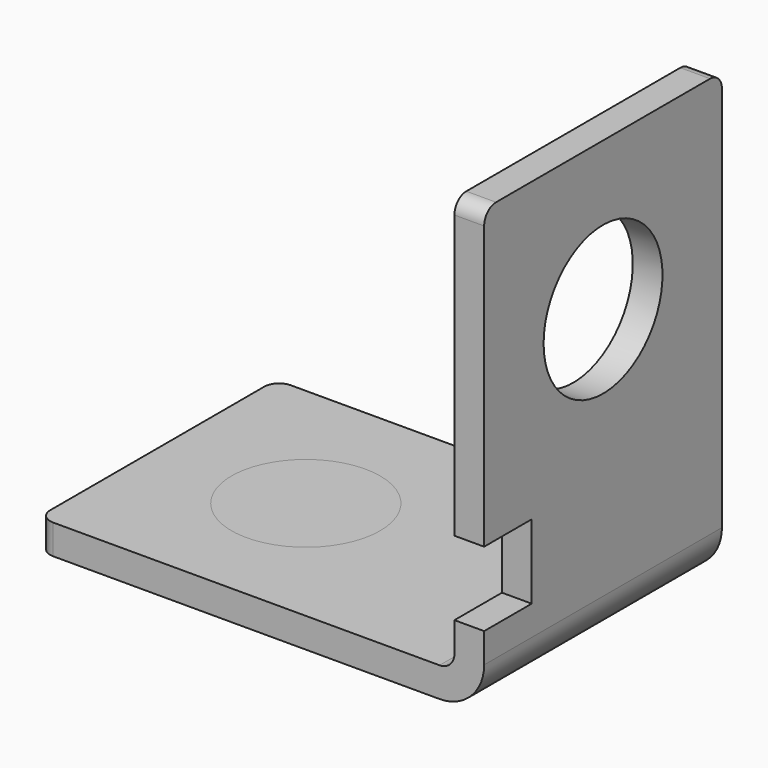
from build123d import *

# Parameters (mm, degrees)
F1_DEPTH  = 20
F2_R      = 5
F3_DEPTH  = 2
F4_R      = 5
F5_DEPTH  = 2
F6_W      = 4
F6_H      = 5
F7_DEPTH  = 2
F8_R      = 1
F9_R      = 5
F10_DEPTH = 5


with BuildPart() as f1:
    # F0 (on Front) → F1 (new body)
    with BuildSketch(Plane.XZ):
        with BuildLine():
            ThreePointArc((-3, 0), (-0.87868, 0.87868), (0, 3))
            Line((0, 3), (0, 30))
            Line((0, 30), (-2, 30))
            Line((-2, 30), (-2, 3))
            ThreePointArc((-2, 3), (-2.292893, 2.292893), (-3, 2))
            Line((-3, 2), (-30, 2))
            Line((-30, 2), (-30, 0))
            Line((-30, 0), (-3, 0))
        make_face()
    extrude(amount=F1_DEPTH)

    # F2 (on face) → F3 (cut, through all)
    with BuildSketch(Plane.XY.offset(2)):
        with Locations((-20, -10)):
            Circle(F2_R)
    extrude(amount=-F3_DEPTH, mode=Mode.SUBTRACT)

    # F4 (on face) → F5 (cut, through all)
    with BuildSketch(Plane(origin=(-2, 0, 0), x_dir=(0, -1, 0), z_dir=(-1, 0, 0))):
        with Locations((10, 20)):
            Circle(F4_R)
    extrude(amount=-F5_DEPTH, mode=Mode.SUBTRACT)

    # F6 (on face) → F7 (cut, through all)
    with BuildSketch(Plane(origin=(-2, 0, 0), x_dir=(0, -1, 0), z_dir=(-1, 0, 0))):
        with Locations((18, 7.5)):
            Rectangle(F6_W, F6_H)
    extrude(amount=-F7_DEPTH, mode=Mode.SUBTRACT)

    # F8
    f8_edges = [f1.edges().sort_by_distance(p)[0] for p in [
        (-1, -20, 30),
        (-1, 0, 30),
        (-30, -20, 1),
        (-30, 0, 1),
    ]]
    fillet(f8_edges, radius=F8_R)


with BuildPart() as f10:
    # F9 (on face) → F10 (new body)
    with BuildSketch(Plane.XY.offset(2)):
        with Locations((-20, -10)):
            Circle(F9_R)
    extrude(amount=-F10_DEPTH)


solid = Compound([f1.part, f10.part])
